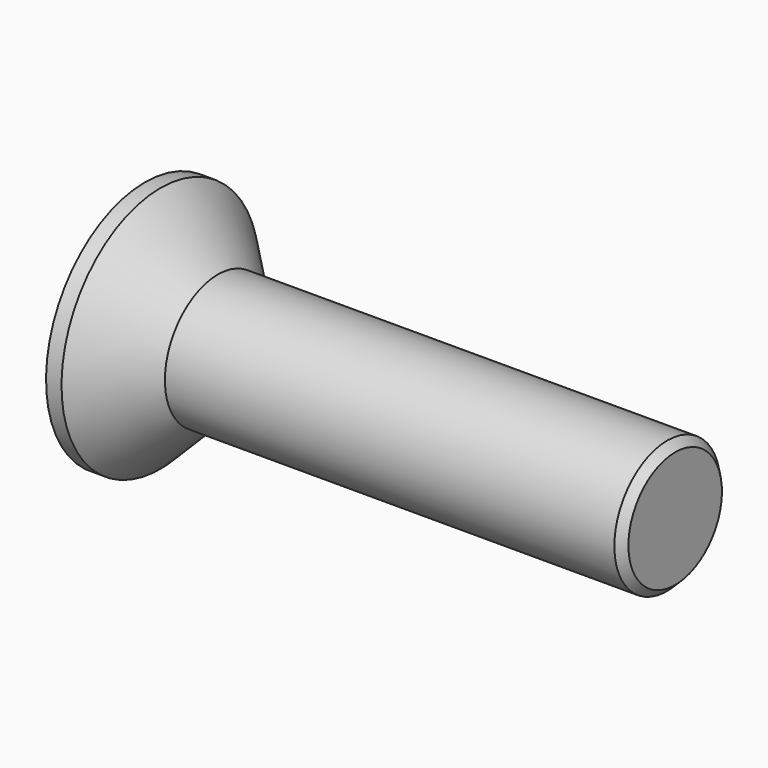
from build123d import *

# Parameters (mm, degrees)
F3_DEPTH = 1.5


with BuildPart() as f1:
    # F0 (on Front) → F1 (revolve)
    with BuildSketch(Plane.XZ):
        Polygon((0, 2.8), (0, 0), (12, 0), (12, 1.323223), (11.823223, 1.5), (1.65, 1.5), (0.35, 2.8), align=None)
    revolve(axis=Axis((6, 0, 0), (1, 0, 0)))

    # F2 (on face) → F3 (cut)
    with BuildSketch(Plane(origin=(0, 0, 0), x_dir=(0, -1, 0), z_dir=(-1, 0, 0))):
        Polygon((1.154701, 0), (0.57735, 1), (-0.57735, 1), (-1.154701, 0), (-0.57735, -1), (0.57735, -1), align=None)
    extrude(amount=-F3_DEPTH, mode=Mode.SUBTRACT)


solid = f1.part
